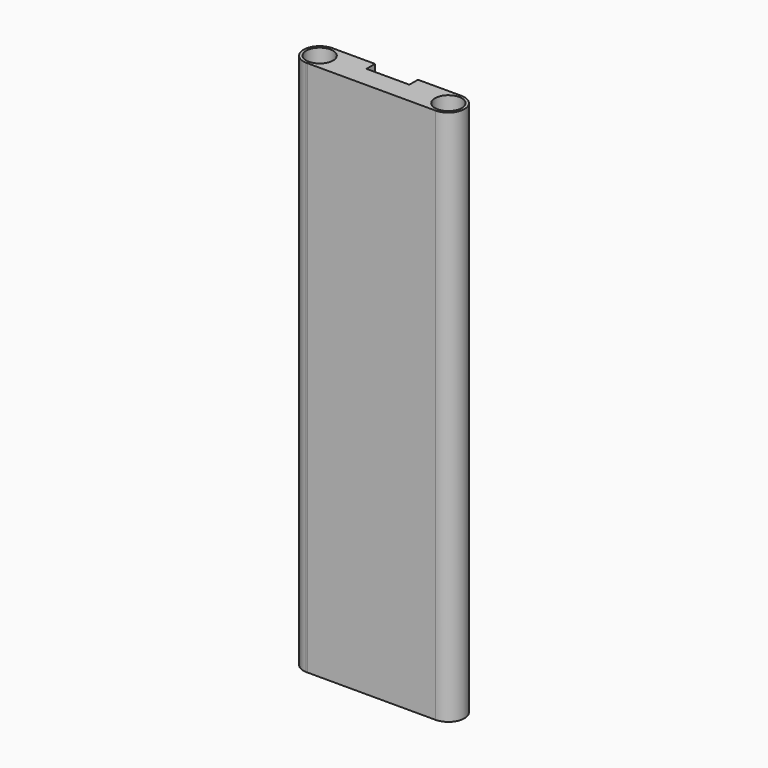
from build123d import *

# Parameters (mm, degrees)
F0_R     = 0.625
F1_DEPTH = 25


with BuildPart() as f1:
    # F0 (on Top) → F1 (new body)
    with BuildSketch(Plane.XY):
        with BuildLine():
            Line((-84.169807, 17.273173), (-78.204214, 17.272388))
            ThreePointArc((-78.204214, 17.272388), (-77.454115, 18.022352), (-78.204142, 18.772388))
            Line((-78.204142, 18.772388), (-80.222164, 18.772315))
            Line((-80.222164, 18.772315), (-80.222146, 18.272315))
            Line((-80.222146, 18.272315), (-82.222146, 18.272243))
            Line((-82.222146, 18.272243), (-82.222164, 18.772243))
            Line((-82.222164, 18.772243), (-84.18612, 18.772172))
            Line((-84.18612, 18.772172), (-84.222164, 18.772171))
            ThreePointArc((-84.222164, 18.772171), (-84.95407, 18.030621), (-84.23862, 17.273182))
            Line((-84.23862, 17.273182), (-84.169807, 17.273173))
        make_face()
        with Locations((-84.204115, 18.022388)):
            Circle(F0_R, mode=Mode.SUBTRACT)
        with Locations((-78.204115, 18.022388)):
            Circle(F0_R, mode=Mode.SUBTRACT)
        with BuildLine():
            ThreePointArc((-84.23862, 17.273182), (-84.204214, 17.272388), (-84.169807, 17.273173))
            Line((-84.169807, 17.273173), (-84.23862, 17.273182))
        make_face()
        with BuildLine():
            ThreePointArc((-84.18612, 18.772172), (-84.204142, 18.772388), (-84.222164, 18.772171))
            Line((-84.222164, 18.772171), (-84.18612, 18.772172))
        make_face()
    extrude(amount=F1_DEPTH)


solid = f1.part
